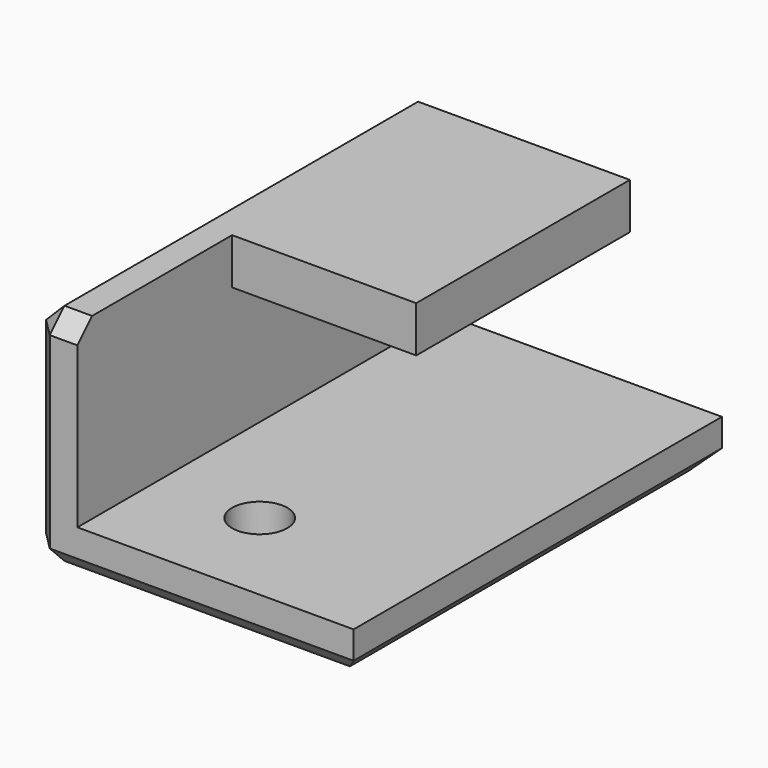
from build123d import *

# Parameters (mm, degrees)
F1_DEPTH = 25
F2_R     = 1.5
F3_DEPTH = 25
F4_W     = 10
F4_H     = 10.5
F4_R     = 1.5
F5_DEPTH = 5
F6_SIZE  = 1


with BuildPart() as f1:
    # F0 (on Front) → F1 (new body)
    with BuildSketch(Plane.XZ):
        Polygon((0, -3.6), (0, 3.6), (10, 3.6), (10, 6.1), (-2.5, 6.1), (-2.5, -6.1), (15, -6.1), (15, -3.6), align=None)
    extrude(amount=F1_DEPTH)

    # F2 (on face) → F3 (cut)
    with BuildSketch(Plane.XY.offset(6.1)):
        with Locations((5.5, -19.5)):
            Circle(F2_R)
    extrude(amount=-F3_DEPTH, mode=Mode.SUBTRACT)

    # F4 (on face) → F5 (cut)
    with BuildSketch(Plane.XY.offset(6.1)):
        with Locations((5, -19.75)):
            Rectangle(F4_W, F4_H)
        with Locations((5.5, -19.5)):
            Circle(F4_R, mode=Mode.SUBTRACT)
    extrude(amount=-F5_DEPTH, mode=Mode.SUBTRACT)

    # F6
    f6_edges = [f1.edges().sort_by_distance(p)[0] for p in [
        (15, -12.5, -6.1),
        (6.25, 0, -6.1),
        (6.25, -25, -6.1),
        (-2.5, -12.5, 6.1),
        (-1.25, -25, 6.1),
        (-2.5, -25, 0),
        (-2.5, 0, 0),
        (-2.5, -12.5, -6.1),
    ]]
    chamfer(f6_edges, length=F6_SIZE)


solid = f1.part
